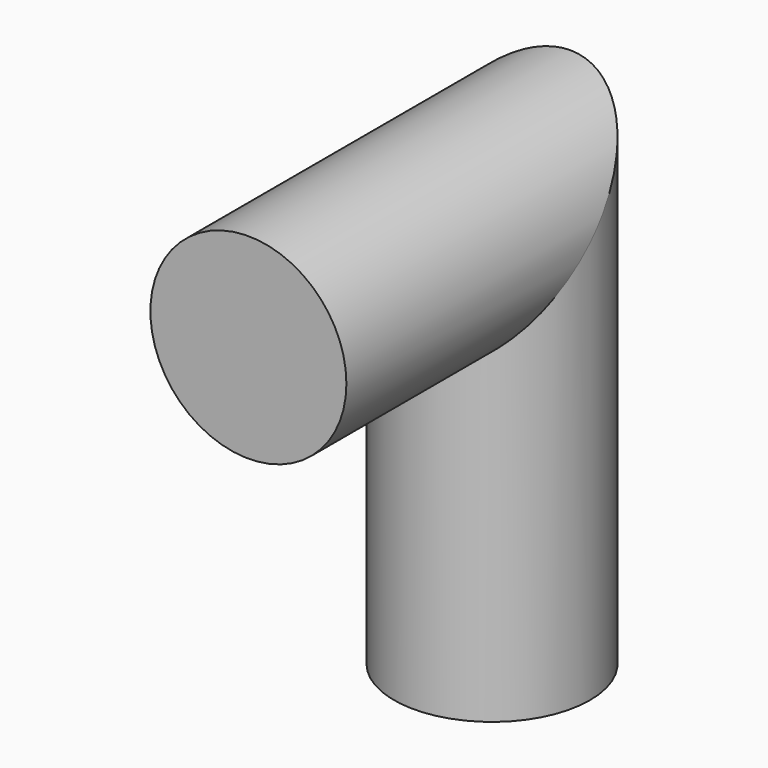
from build123d import *

# Parameters (mm, degrees)
F0_R = 10


with BuildPart() as f2:
    # F2: sweep along a path in F1
    with BuildLine(Plane.YZ) as f2_path:
        Line((0, 28.9285748253), (30, 28.9285748253))
        Line((30, 28.9285748253), (30, -11.0714251747))
    # F0 (on Front) → F2 (sweep)
    with BuildSketch(Plane.XZ):
        with Locations((0, 30)):
            Circle(F0_R)
    sweep(path=f2_path.line, transition=Transition.RIGHT)


solid = f2.part
